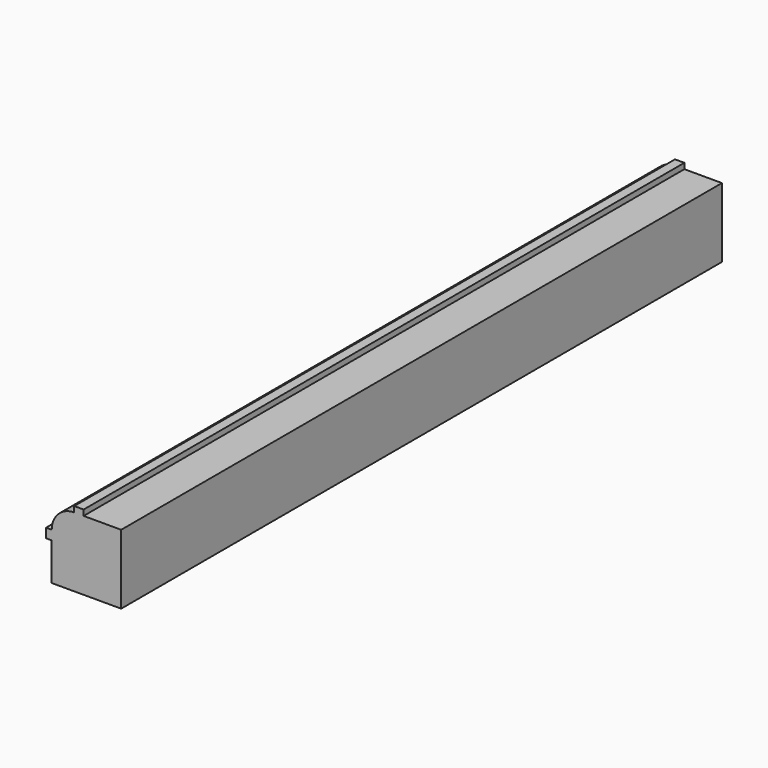
from build123d import *

# Parameters (mm, degrees)
F0_W     = 50.8
F0_H     = 508
F1_DEPTH = 50.8
F2_W     = 25.4
F2_H     = 3.81
F3_DEPTH = 508.001
F4_W     = 3.81
F4_H     = 25.4
F5_DEPTH = 508.001
F7_DEPTH = 508.001


with BuildPart() as f1:
    # F0 (on Top) → F1 (new body)
    with BuildSketch(Plane.XY):
        with Locations((25.4, 254)):
            Rectangle(F0_W, F0_H)
    extrude(amount=F1_DEPTH)

    # F2 (on face) → F3 (cut, through all)
    with BuildSketch(Plane(origin=(0, 508, 0), x_dir=(-1, 0, 0), z_dir=(0, 1, 0))):
        with Locations((-38.1, 48.895)):
            Rectangle(F2_W, F2_H)
    extrude(amount=-F3_DEPTH, mode=Mode.SUBTRACT)

    # F4 (on face) → F5 (cut, through all)
    with BuildSketch(Plane(origin=(0, 508, 0), x_dir=(-1, 0, 0), z_dir=(0, 1, 0))):
        with Locations((-1.905, 12.7)):
            Rectangle(F4_W, F4_H)
    extrude(amount=-F5_DEPTH, mode=Mode.SUBTRACT)

    # F6 (on face) → F7 (cut, through all)
    with BuildSketch(Plane(origin=(0, 508, 0), x_dir=(-1, 0, 0), z_dir=(0, 1, 0))):
        with BuildLine():
            Line((0, 50.8), (-19.05, 50.8))
            Line((-19.05, 50.8), (-19.05, 46.99))
            ThreePointArc((-19.05, 46.99), (-8.273693, 42.526307), (-3.81, 31.75))
            Line((-3.81, 31.75), (0, 31.75))
            Line((0, 31.75), (0, 50.8))
        make_face()
    extrude(amount=-F7_DEPTH, mode=Mode.SUBTRACT)


solid = f1.part
